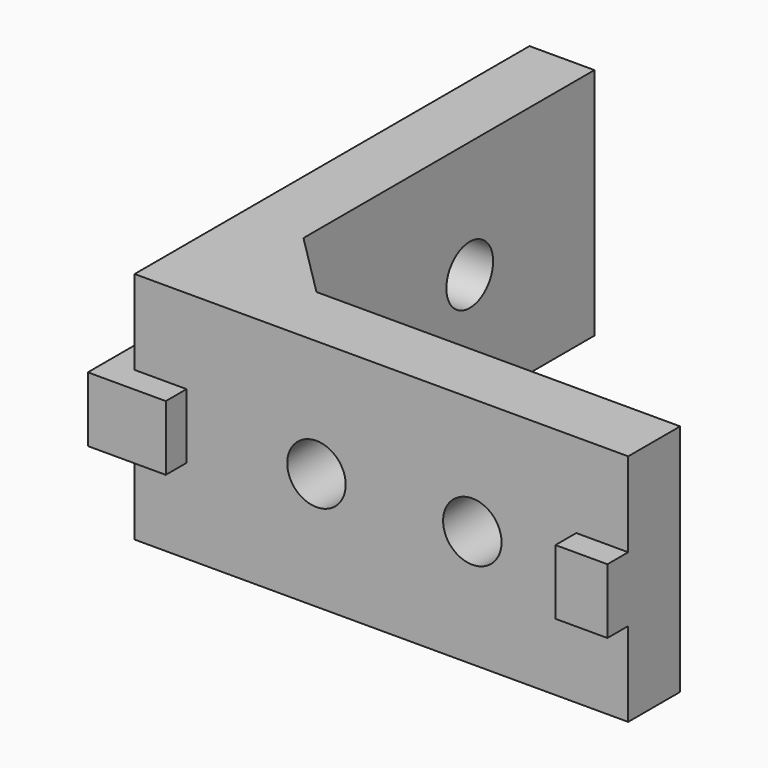
from build123d import *

# Parameters (mm, degrees)
F1_DEPTH  = 18
F2_W      = 4
F2_H      = 5
F3_DEPTH  = 2
F2_R      = 2.25
F4_DEPTH  = 25
F5_R      = 4.5
F6_DEPTH  = 25
F7_R      = 2.25
F8_DEPTH  = 25
F7_W      = 4
F7_H      = 5
F9_DEPTH  = 2
F10_R     = 4.5
F11_DEPTH = 25


with BuildPart() as f1:
    # F0 (on Top) → F1 (new body)
    with BuildSketch(Plane.XY):
        Polygon((0, 38), (0, 0), (38, 0), (38, 5), (10, 5), (5, 10), (5, 38), align=None)
    extrude(amount=F1_DEPTH)

    # F2 (on face) → F3 (join)
    with BuildSketch(Plane.XZ):
        with Locations((2, 9)):
            Rectangle(F2_W, F2_H)
        with Locations((36, 9)):
            Rectangle(F2_W, F2_H)
    extrude(amount=F3_DEPTH)

    # F2 (on face) → F4 (cut)
    with BuildSketch(Plane.XZ):
        with Locations((14, 9)):
            Circle(F2_R)
        with Locations((26, 9)):
            Circle(F2_R)
    extrude(amount=-F4_DEPTH, mode=Mode.SUBTRACT)

    # F5 (on face) → F6 (cut)
    with BuildSketch(Plane(origin=(0, 5, 0), x_dir=(-1, 0, 0), z_dir=(0, 1, 0))):
        with Locations((-14, 9)):
            Circle(F5_R)
    extrude(amount=F6_DEPTH, mode=Mode.SUBTRACT)

    # F7 (on face) → F8 (cut)
    with BuildSketch(Plane(origin=(0, 0, 0), x_dir=(0, -1, 0), z_dir=(-1, 0, 0))):
        with Locations((-14, 9)):
            Circle(F7_R)
        with Locations((-26, 9)):
            Circle(F7_R)
    extrude(amount=-F8_DEPTH, mode=Mode.SUBTRACT)

    # F7 (on face) → F9 (join)
    with BuildSketch(Plane(origin=(0, 0, 0), x_dir=(0, -1, 0), z_dir=(-1, 0, 0))):
        Polygon((2, 6.5), (2, 11.5), (0, 11.5), (-4, 11.5), (-4, 6.5), (0, 6.5), align=None)
        with Locations((-36, 9)):
            Rectangle(F7_W, F7_H)
    extrude(amount=F9_DEPTH)

    # F10 (on face) → F11 (cut)
    with BuildSketch(Plane.YZ.offset(5)):
        with Locations((14, 9)):
            Circle(F10_R)
    extrude(amount=F11_DEPTH, mode=Mode.SUBTRACT)


solid = f1.part
